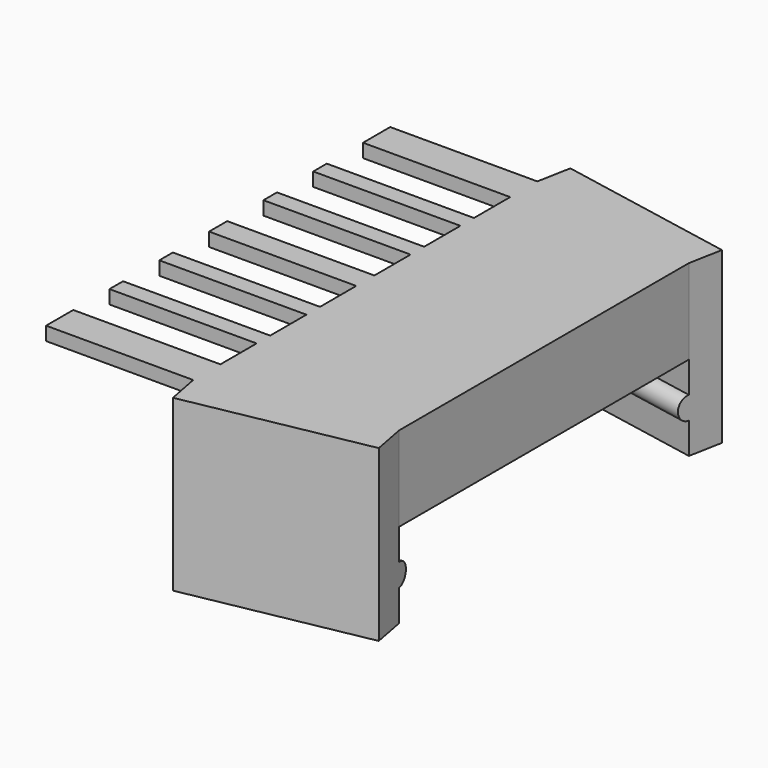
from build123d import *

# Parameters (mm, degrees)
F1_DEPTH  = 38
F2_W      = 13
F2_H      = 4
F3_DEPTH  = 7.501
F4_W      = 16.0720253857
F4_H      = 15
F5_DEPTH  = 3
F6_W      = 16.0720253857
F6_H      = 15
F7_DEPTH  = 3
F9_DEPTH  = 16.05
F11_DEPTH = 16.05


with BuildPart() as f1:
    # F0 (on Front) → F1 (new body)
    with BuildSketch(Plane.XZ):
        Polygon((-13, 1.2), (-13, 0), (0, 0), (15.7895535086, -6.3), (15.7895535086, 1.2), align=None)
    extrude(amount=-F1_DEPTH)

    # F2 (on face) → F3 (cut, through all)
    with BuildSketch(Plane.XY.offset(1.2)):
        with Locations((-6.5, 33)):
            Rectangle(F2_W, F2_H)
        with Locations((-6.5, 27.5)):
            Rectangle(F2_W, F2_H)
        with Locations((-6.5, 22)):
            Rectangle(F2_W, F2_H)
        with Locations((-6.5, 16)):
            Rectangle(F2_W, F2_H)
        with Locations((-6.5, 10.5)):
            Rectangle(F2_W, F2_H)
        with Locations((-6.5, 5)):
            Rectangle(F2_W, F2_H)
        Polygon((15.7895535086, 3), (0, 0), (15.7895535086, 0), align=None)
        Polygon((15.7895535086, 38), (0, 38), (15.7895535086, 35), align=None)
    extrude(amount=-F3_DEPTH, mode=Mode.SUBTRACT)

    # F4 (on face) → F5 (join)
    with BuildSketch(Plane(origin=(6.9684065657, 36.676009446, 0), x_dir=(-0.9824246248, 0.186659735, 0), z_dir=(0.186659735, 0.9824246248, 0))):
        with Locations((-0.9429427615, -6.3)):
            Rectangle(F4_W, F4_H)
    extrude(amount=F5_DEPTH)

    # F6 (on face) → F7 (join)
    with BuildSketch(Plane(origin=(0, 0, 0), x_dir=(0.9824246248, 0.186659735, 0), z_dir=(0.186659735, -0.9824246248, 0))):
        Polygon((16.0720253857, -6.3), (0, 0), (0, -13.8), (16.0720253857, -13.8), align=None)
        with Locations((8.0360126929, -6.3)):
            Rectangle(F6_W, F6_H)
    extrude(amount=F7_DEPTH)

    # F8 (on face) → F9 (join)
    with BuildSketch(Plane(origin=(8.8211469429, -1.676009446, 0), x_dir=(0.186659735, 0.9824246248, 0), z_dir=(0.9824246248, -0.186659735, 0))):
        with BuildLine():
            Line((37.3321357405, -11.05), (37.3321357405, -9.05))
            ThreePointArc((37.3321357405, -9.05), (36.3321357405, -10.05), (37.3321357405, -11.05))
        make_face()
    extrude(amount=-F9_DEPTH)

    # F10 (on face) → F11 (join)
    with BuildSketch(Plane(origin=(15.7895535086, 3, 0), x_dir=(-0.186659735, 0.9824246248, 0), z_dir=(0.9824246248, 0.186659735, 0))):
        with BuildLine():
            Line((0, -9.05), (0, -11.05))
            ThreePointArc((0, -11.05), (1, -10.05), (0, -9.05))
        make_face()
    extrude(amount=-F11_DEPTH)


solid = f1.part
